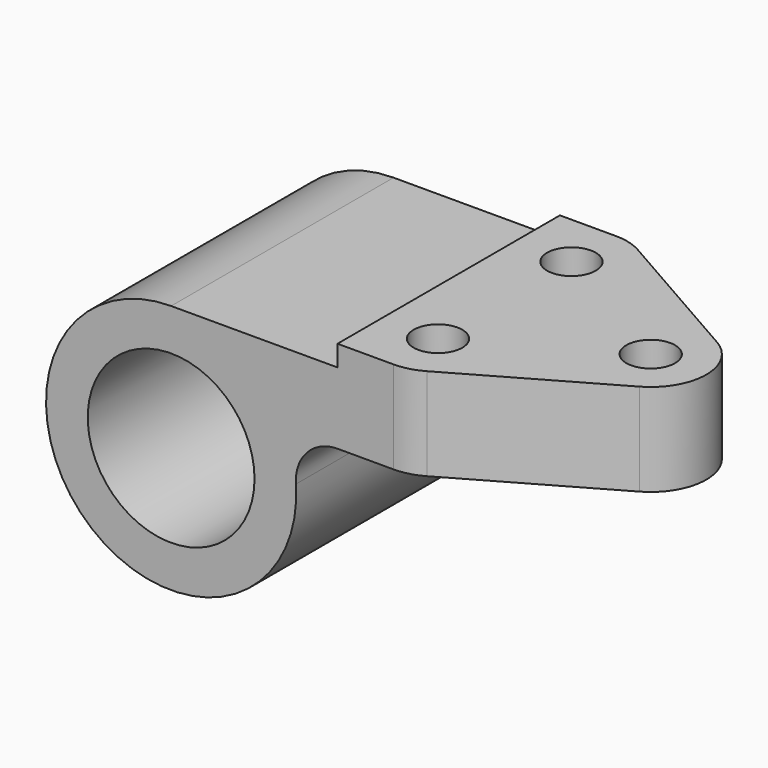
from build123d import *

# Parameters (mm, degrees)
F0_R     = 19.05
F1_DEPTH = 63.5
F2_R     = 5.5626
F3_DEPTH = 25.4


with BuildPart() as f1:
    # F0 (on Front) → F1 (new body)
    with BuildSketch(Plane.XZ):
        with BuildLine():
            Line((38.003319, 28.575), (0, 28.575))
            ThreePointArc((0, 28.575), (-19.473031, -20.912476), (28.502489, 2.034391))
            ThreePointArc((28.502489, 2.034391), (31.032493, 9.203532), (38.003319, 12.237521))
            Line((38.003319, 12.237521), (101.696681, 12.237521))
            Line((101.696681, 12.237521), (101.696681, 33.3502))
            Line((101.696681, 33.3502), (38.003319, 33.3502))
            Line((38.003319, 33.3502), (38.003319, 28.575))
        make_face()
        Circle(F0_R, mode=Mode.SUBTRACT)
    extrude(amount=F1_DEPTH)

    # F2 (on face) → F3 (cut)
    with BuildSketch(Plane.XY.offset(33.3502)):
        with BuildLine():
            ThreePointArc((90.449355, -20.722279), (96.8502, -31.75), (90.449355, -42.777721))
            Line((90.449355, -42.777721), (57.099155, -61.827721))
            ThreePointArc((57.099155, -61.827721), (54.058676, -63.074813), (50.8, -63.5))
            Line((50.8, -63.5), (101.696681, -63.5))
            Line((101.696681, -63.5), (101.696681, 0))
            Line((101.696681, 0), (50.8, 0))
            ThreePointArc((50.8, 0), (54.058676, -0.425187), (57.099155, -1.672279))
            Line((57.099155, -1.672279), (90.449355, -20.722279))
        make_face()
        with Locations((50.8, -50.8)):
            Circle(F2_R)
        with Locations((84.1502, -31.75)):
            Circle(F2_R)
        with Locations((50.8, -12.7)):
            Circle(F2_R)
    extrude(amount=-F3_DEPTH, mode=Mode.SUBTRACT)


solid = f1.part
